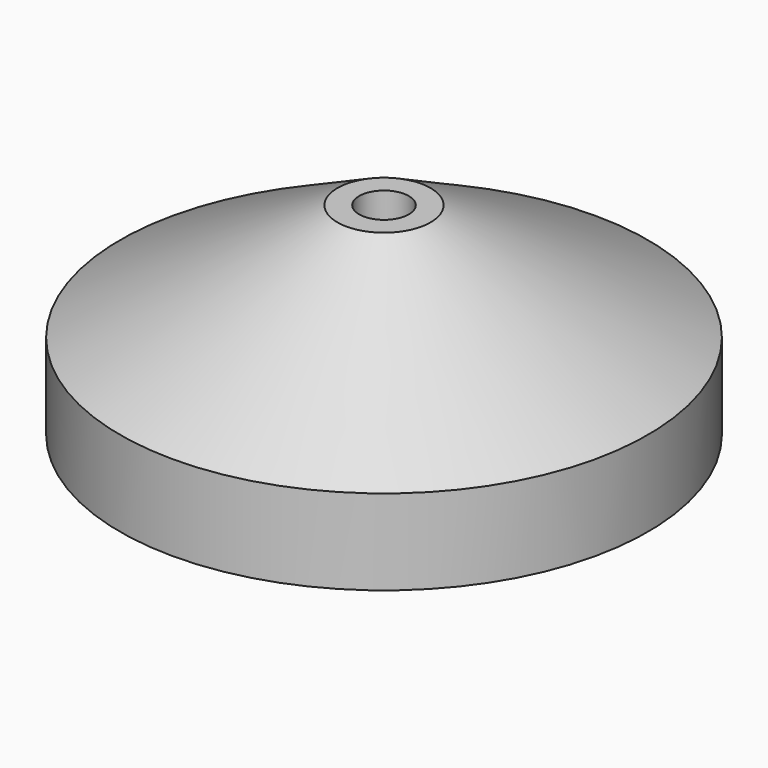
from build123d import *

# Parameters (mm, degrees)
SKETCH_W        = 12
SKETCH_H        = 12
POCKET_DEPTH    = 6
POCKET001_DEPTH = 3


with BuildPart() as part:
    # Sketch002 → Revolution (revolve)
    with BuildSketch(Plane.YZ):
        Polygon((1.6, 13), (1.6, 0), (17, 0), (17, 5.5), (3, 13), align=None)
    revolve(axis=Axis((0, 0, 0), (0, 0, 1)))

    # Sketch → Pocket (cut)
    with BuildSketch(Plane.YX):
        Rectangle(SKETCH_W, SKETCH_H)
    extrude(amount=-POCKET_DEPTH, mode=Mode.SUBTRACT)

    # Sketch003 → Pocket001 (cut)
    with BuildSketch(Plane.YX.offset(-6)):
        Polygon((3.1, 0), (1.55, 2.684679), (-1.55, 2.684679), (-3.1, 0), (-1.55, -2.684679), (1.55, -2.684679), align=None)
    extrude(amount=-POCKET001_DEPTH, mode=Mode.SUBTRACT)


solid = part.part
